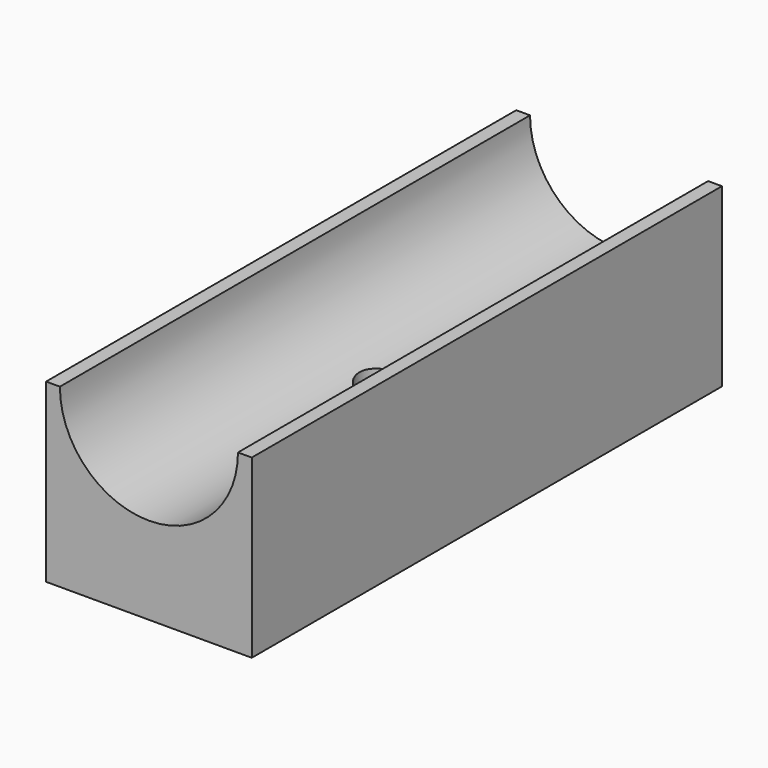
from build123d import *

# Parameters (mm, degrees)
F0_W     = 35
F0_H     = 100
F1_DEPTH = 30
F2_R     = 15.15
F3_DEPTH = 999
F4_R     = 4.15
F5_DEPTH = 25


with BuildPart() as f1:
    # F0 (on Top) → F1 (new body)
    with BuildSketch(Plane.XY):
        with Locations((17.5, 50)):
            Rectangle(F0_W, F0_H)
    extrude(amount=F1_DEPTH)

    # F2 (on face) → F3 (cut)
    with BuildSketch(Plane.XZ):
        with Locations((17.5, 30)):
            Circle(F2_R)
    extrude(amount=-F3_DEPTH, mode=Mode.SUBTRACT)

    # F4 (on face) → F5 (cut)
    with BuildSketch(Plane(origin=(0, 0, 0), x_dir=(1, 0, 0), z_dir=(0, 0, -1))):
        with Locations((17.5, -50)):
            Circle(F4_R)
    extrude(amount=-F5_DEPTH, mode=Mode.SUBTRACT)


solid = f1.part
